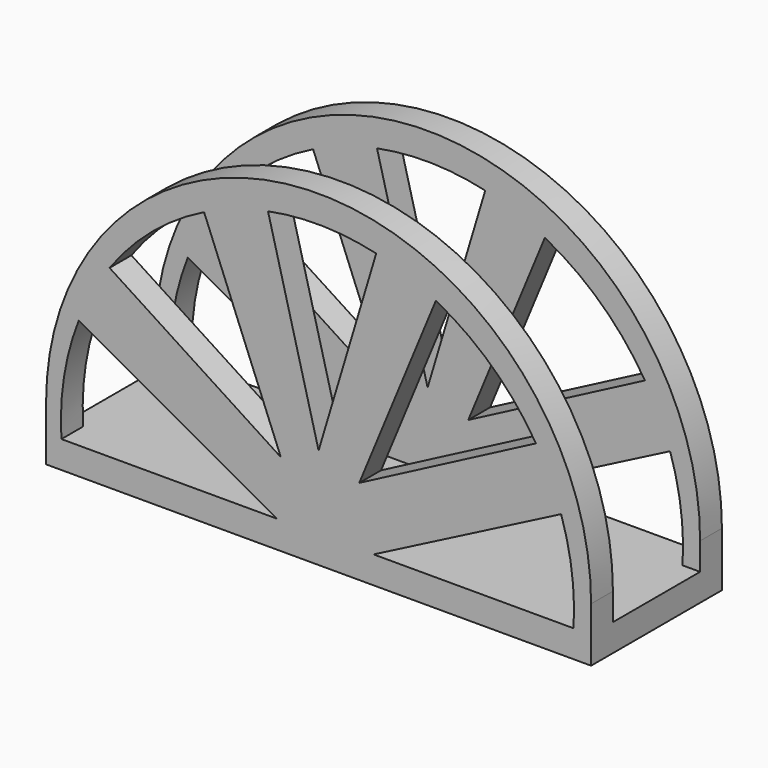
from build123d import *

# Parameters (mm, degrees)
F1_DEPTH = 150
F2_W     = 100
F2_H     = 297.664444
F2_H_2   = 25
F3_DEPTH = 10000
F5_DEPTH = 10000


with BuildPart() as f1:
    # F0 (on Front) → F1 (new body)
    with BuildSketch(Plane.XZ):
        with BuildLine():
            Line((-250, -25), (250, -25))
            Line((250, -25), (250, 25))
            ThreePointArc((250, 25), (0, 275), (-250, 25))
            Line((-250, 25), (-250, -25))
        make_face()
    extrude(amount=-F1_DEPTH)

    # F2 (on face) → F3 (cut)
    with BuildSketch(Plane(origin=(-250, 0, 0), x_dir=(0, -1, 0), z_dir=(-1, 0, 0))):
        with Locations((-75, 173.832222)):
            Rectangle(F2_W, F2_H)
        with Locations((-75, 12.5)):
            Rectangle(F2_W, F2_H_2)
    extrude(amount=-F3_DEPTH, mode=Mode.SUBTRACT)

    # F4 (on face) → F5 (cut)
    with BuildSketch(Plane(origin=(0, 150, 0), x_dir=(-1, 0, 0), z_dir=(0, 1, 0))):
        with BuildLine():
            Line((-233.881947, 0), (-50.46213, 0))
            Line((-50.46213, 0), (-222.4755, 88.46351))
            ThreePointArc((-222.4755, 88.46351), (-232.40746, 44.777007), (-233.881947, 0))
        make_face()
        with BuildLine():
            Line((-37.298094, 53.475399), (-107.561018, 223.502855))
            ThreePointArc((-107.561018, 223.502855), (-159.267001, 187.027318), (-199.387616, 138.095635))
            Line((-199.387616, 138.095635), (-37.298094, 53.475399))
        make_face()
        with BuildLine():
            Line((0, 67.517042), (46.411204, 245.636359))
            ThreePointArc((46.411204, 245.636359), (-3.315529, 250.011517), (-52.846596, 243.801574))
            Line((-52.846596, 243.801574), (0, 67.517042))
        make_face()
        with BuildLine():
            Line((34.665316, 50.842591), (191.731855, 152.647342))
            ThreePointArc((191.731855, 152.647342), (152.861228, 194.537882), (105.04086, 225.826144))
            Line((105.04086, 225.826144), (34.665316, 50.842591))
        make_face()
        with BuildLine():
            ThreePointArc((235.951228, 0), (233.540018, 51.316805), (220.052612, 100.88815))
            Line((220.052612, 100.88815), (38.175728, 0))
            Line((38.175728, 0), (235.951228, 0))
        make_face()
    extrude(amount=-F5_DEPTH, mode=Mode.SUBTRACT)


solid = f1.part
